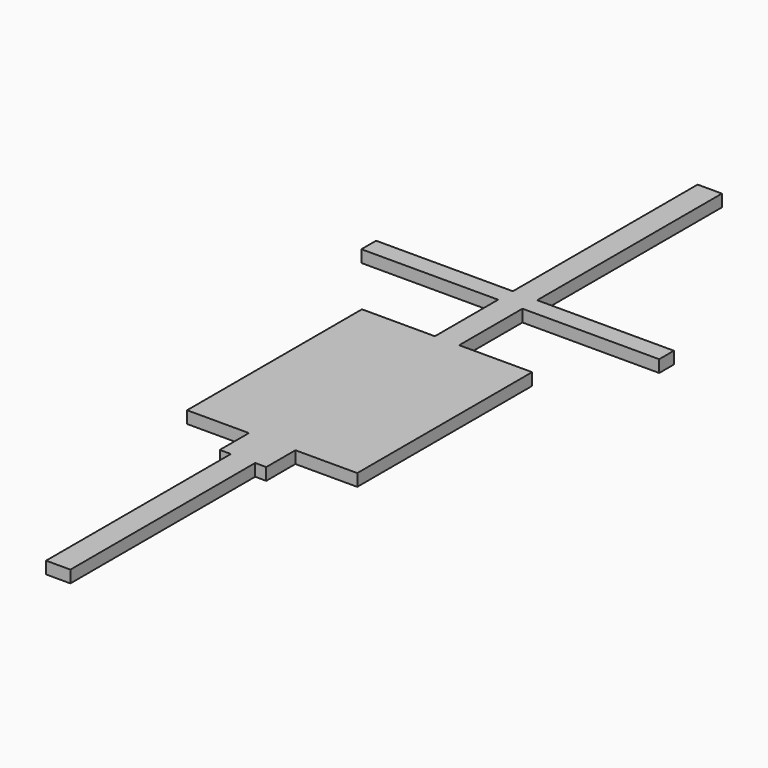
from build123d import *

# Parameters (mm, degrees)
F0_W     = 50.8
F0_H     = 482.6
F0_W_2   = 23.167712307
F0_H_2   = 76.2
F0_H_3   = 145.5220067978
F0_H_4   = 311.2254058838
F0_H_5   = 165.2207044601
F0_W_3   = 285.75
F0_H_6   = 38.4318828583
F1_DEPTH = 25.4


with BuildPart() as f1:
    # F0 (on Top) → F1 (new body)
    with BuildSketch(Plane.XY):
        with Locations((0, 241.3)):
            Rectangle(F0_W, F0_H)
        with Locations((-36.9838561535, 520.7)):
            Rectangle(F0_W_2, F0_H_2)
        with Locations((0, 520.7)):
            Rectangle(F0_W, F0_H_2)
        with Locations((36.9838561535, 520.7)):
            Rectangle(F0_W_2, F0_H_2)
        with Locations((-36.9838561535, 631.5610033989)):
            Rectangle(F0_W_2, F0_H_3)
        with Locations((36.9838561535, 631.5610033989)):
            Rectangle(F0_W_2, F0_H_3)
        Polygon((-48.567712307, 704.3220067978), (-25.4, 704.3220067978), (-25.4, 1015.5474126816), (-177.8, 1015.5474126816), (-177.8, 558.8), (-48.567712307, 558.8), align=None)
        with Locations((0, 859.9347097397)):
            Rectangle(F0_W, F0_H_4)
        Polygon((25.4, 1015.5474126816), (25.4, 704.3220067978), (48.567712307, 704.3220067978), (48.567712307, 558.8), (177.8, 558.8), (177.8, 1015.5474126816), align=None)
        with Locations((0, 1098.1577649117)):
            Rectangle(F0_W, F0_H_5)
        with Locations((-168.275, 1199.9840585709)):
            Rectangle(F0_W_3, F0_H_6)
        with Locations((0, 1199.9840585709)):
            Rectangle(F0_W, F0_H_6)
        with Locations((168.275, 1199.9840585709)):
            Rectangle(F0_W_3, F0_H_6)
        with Locations((0, 1460.5)):
            Rectangle(F0_W, F0_H)
        with Locations((0, 631.5610033989)):
            Rectangle(F0_W, F0_H_3)
    extrude(amount=F1_DEPTH)


solid = f1.part
